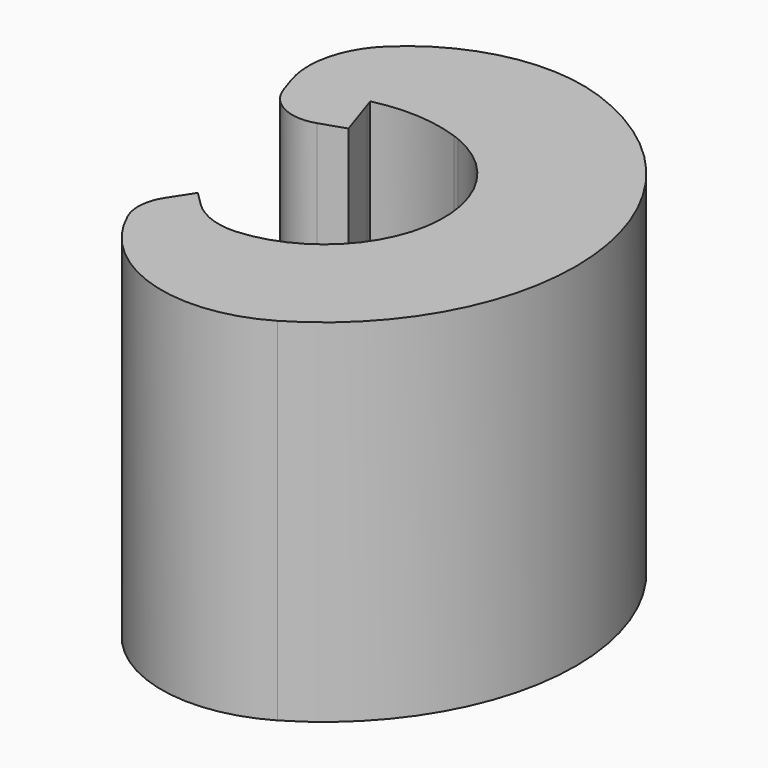
from build123d import *

# Parameters (mm, degrees)
F1_DEPTH = 8


with BuildPart() as f1:
    # F0 (on Top) → F1 (new body)
    with BuildSketch(Plane.XY):
        with BuildLine():
            ThreePointArc((1.029984, 2.522847), (2.689825, -0.436422), (0.179486, -2.719083))
            ThreePointArc((0.179486, -2.719083), (-0.448282, -2.625975), (-0.981362, -2.281611))
            Line((-0.981362, -2.281611), (-1.28439, -1.977788))
            Line((-1.28439, -1.977788), (-1.624464, -2.501455))
            ThreePointArc((-1.624464, -2.501455), (-1.782451, -2.964401), (-1.701958, -3.446894))
            ThreePointArc((-1.701958, -3.446894), (0.259572, -5.225119), (2.891856, -4.94093))
            ThreePointArc((2.891856, -4.94093), (5.700982, 0.523862), (1.94299, 5.385203))
            ThreePointArc((1.94299, 5.385203), (-0.245562, 5.535343), (-2.184174, 4.508656))
            ThreePointArc((-2.184174, 4.508656), (-2.740883, 3.54575), (-2.697124, 2.434356))
            Line((-2.697124, 2.434356), (-2.574905, 2.06694))
            ThreePointArc((-2.574905, 2.06694), (-2.073794, 1.48843), (-1.310386, 1.433701))
            Line((-1.310386, 1.433701), (-0.741058, 1.623084))
            Line((-0.741058, 1.623084), (-1.039114, 2.519101))
            Line((-1.039114, 2.519101), (-1.093077, 2.681326))
            ThreePointArc((-1.093077, 2.681326), (-0.085157, 2.770975), (0.906541, 2.569788))
            ThreePointArc((0.906541, 2.569788), (0.968547, 2.547065), (1.029984, 2.522847))
        make_face()
        with BuildLine():
            ThreePointArc((0.906541, 2.569788), (0.968483, 2.546897), (1.029984, 2.522847))
            ThreePointArc((1.029984, 2.522847), (0.968547, 2.547065), (0.906541, 2.569788))
        make_face()
    extrude(amount=F1_DEPTH)


solid = f1.part
